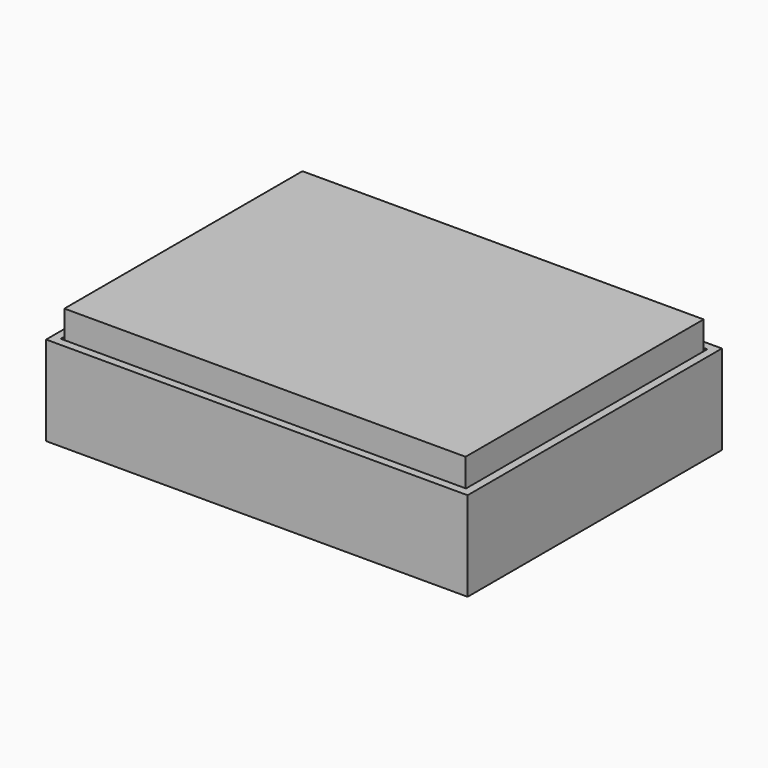
from build123d import *

# Parameters (mm, degrees)
CYLINDER001_R     = 1
CYLINDER001_DEPTH = 7
CYLINDER_R        = 3
CYLINDER_DEPTH    = 7
BOX009_W          = 2
BOX009_H          = 10
BOX009_DEPTH      = 12.8
BOX004_W          = 16.1
BOX004_H          = 16.1
BOX004_DEPTH      = 2
BOX008_W          = 71.6
BOX008_H          = 25.1
BOX008_DEPTH      = 2
CYLINDER002_R     = 4
CYLINDER002_DEPTH = 2
BOX001_W          = 99.7
BOX001_H          = 74.2
BOX001_DEPTH      = 22
BOX_W             = 103.7
BOX_H             = 78.2
BOX_DEPTH         = 22
BOX005_W          = 3
BOX005_H          = 1.6
BOX005_DEPTH      = 7
BOX006_W          = 1.6
BOX006_H          = 3
BOX006_DEPTH      = 7
BOX007_W          = 1.6
BOX007_H          = 3
BOX007_DEPTH      = 7
BOX003_W          = 12.9
BOX003_H          = 12.9
BOX003_DEPTH      = 22
BOX002_W          = 16.1
BOX002_H          = 16.1
BOX002_DEPTH      = 22
CHAMFER_SIZE      = 1
BOX014_W          = 2
BOX014_H          = 10
BOX014_DEPTH      = 12.8
BOX011_W          = 94.7
BOX011_H          = 69.2
BOX011_DEPTH      = 16
BOX010_W          = 98.7
BOX010_H          = 73.2
BOX010_DEPTH      = 18
BOX013_W          = 52
BOX013_H          = 33.8
BOX013_DEPTH      = 5
BOX012_W          = 56
BOX012_H          = 37.8
BOX012_DEPTH      = 7
BOX015_W          = 98.7
BOX015_H          = 73.2
BOX015_DEPTH      = 1.5


with BuildPart() as supporthole001:
    # Cylinder001 → Cylinder001 (new body)
    with BuildSketch(Plane.XY):
        Circle(CYLINDER001_R)
    extrude(amount=CYLINDER001_DEPTH)


with BuildPart() as supportext001:
    # Cylinder → Cylinder (new body)
    with BuildSketch(Plane.XY):
        Circle(CYLINDER_R)
    extrude(amount=CYLINDER_DEPTH)


with BuildPart() as support001:
    # Cut base: copy of SupportExt001
    add(supportext001.part)

    # Cut: cut SupportHole001
    add(supporthole001.part, mode=Mode.SUBTRACT)


with BuildPart() as support001_1:
    # Cut placement: moved
    add(support001.part.moved(Location((3.5, 3.5, 2))))


with BuildPart() as support002:
    # Cut001 base: copy of SupportExt001
    add(supportext001.part)

    # Cut001: cut SupportHole001
    add(supporthole001.part, mode=Mode.SUBTRACT)


with BuildPart() as support002_1:
    # Cut001 placement: moved
    add(support002.part.moved(Location((3.5, 69.7, 2))))


with BuildPart() as support003:
    # Cut002 base: copy of SupportExt001
    add(supportext001.part)

    # Cut002: cut SupportHole001
    add(supporthole001.part, mode=Mode.SUBTRACT)


with BuildPart() as support003_1:
    # Cut002 placement: moved
    add(support003.part.moved(Location((95.2, 3.5, 2))))


with BuildPart() as support004:
    # Cut003 base: copy of SupportExt001
    add(supportext001.part)

    # Cut003: cut SupportHole001
    add(supporthole001.part, mode=Mode.SUBTRACT)


with BuildPart() as support004_1:
    # Cut003 placement: moved
    add(support004.part.moved(Location((95.2, 69.7, 2))))


with BuildPart() as usbhole:
    # Box009 → Box009 (new body)
    with BuildSketch(Plane(origin=(-2.5, 38.2, 9.2), x_dir=(1, 0, 0), z_dir=(0, 0, 1))):
        with Locations((1, 5)):
            Rectangle(BOX009_W, BOX009_H)
    extrude(amount=BOX009_DEPTH)


with BuildPart() as hole:
    # Box004 → Box004 (new body)
    with BuildSketch(Plane(origin=(47.1, 3.8, 0), x_dir=(1, 0, 0), z_dir=(0, 0, 1))):
        with Locations((8.05, 8.05)):
            Rectangle(BOX004_W, BOX004_H)
    extrude(amount=BOX004_DEPTH)


with BuildPart() as screen:
    # Box008 → Box008 (new body)
    with BuildSketch(Plane(origin=(13.4, 40.5, 0), x_dir=(1, 0, 0), z_dir=(0, 0, 1))):
        with Locations((35.8, 12.55)):
            Rectangle(BOX008_W, BOX008_H)
    extrude(amount=BOX008_DEPTH)


with BuildPart() as holesinfront:
    # Cylinder002 → Cylinder002 (new body)
    with BuildSketch(Plane(origin=(13.2, 12.8, 0), x_dir=(1, 0, 0), z_dir=(0, 0, 1))):
        Circle(CYLINDER002_R)
    extrude(amount=CYLINDER002_DEPTH)

    # Fusion001: union hole, screen
    add(hole.part)
    add(screen.part)


with BuildPart() as boxcut:
    # Box001 → Box001 (new body)
    with BuildSketch(Plane(origin=(2, 2, 2), x_dir=(1, 0, 0), z_dir=(0, 0, 1))):
        with Locations((49.85, 37.1)):
            Rectangle(BOX001_W, BOX001_H)
    extrude(amount=BOX001_DEPTH)


with BuildPart() as finalbox:
    # Box → Box (new body)
    with BuildSketch(Plane.XY):
        with Locations((51.85, 39.1)):
            Rectangle(BOX_W, BOX_H)
    extrude(amount=BOX_DEPTH)

    # Cut004: cut BoxCut
    add(boxcut.part, mode=Mode.SUBTRACT)


with BuildPart() as finalbox_1:
    # Cut004 placement: moved
    add(finalbox.part.moved(Location((-2.5, -2.5, 0))))

    # Cut007: cut HolesInFront
    add(holesinfront.part, mode=Mode.SUBTRACT)

    # Cut008: cut usbHole
    add(usbhole.part, mode=Mode.SUBTRACT)


with BuildPart() as window1:
    # Box005 → Box005 (new body)
    with BuildSketch(Plane(origin=(6.55, 14.5, 10.3), x_dir=(1, 0, 0), z_dir=(0, 0, 1))):
        with Locations((1.5, 0.8)):
            Rectangle(BOX005_W, BOX005_H)
    extrude(amount=BOX005_DEPTH)


with BuildPart() as window2:
    # Box006 → Box006 (new body)
    with BuildSketch(Plane(origin=(0, 6.55, 10.3), x_dir=(1, 0, 0), z_dir=(0, 0, 1))):
        with Locations((0.8, 1.5)):
            Rectangle(BOX006_W, BOX006_H)
    extrude(amount=BOX006_DEPTH)


with BuildPart() as windows:
    # Box007 → Box007 (new body)
    with BuildSketch(Plane(origin=(14.5, 6.55, 10.3), x_dir=(1, 0, 0), z_dir=(0, 0, 1))):
        with Locations((0.8, 1.5)):
            Rectangle(BOX007_W, BOX007_H)
    extrude(amount=BOX007_DEPTH)

    # Fusion: union Window1, Window2
    add(window1.part)
    add(window2.part)


with BuildPart() as holecut:
    # Box003 → Box003 (new body)
    with BuildSketch(Plane(origin=(1.6, 1.6, 0), x_dir=(1, 0, 0), z_dir=(0, 0, 1))):
        with Locations((6.45, 6.45)):
            Rectangle(BOX003_W, BOX003_H)
    extrude(amount=BOX003_DEPTH)


with BuildPart() as chamfer_body:
    # Box002 → Box002 (new body)
    with BuildSketch(Plane.XY):
        with Locations((8.05, 8.05)):
            Rectangle(BOX002_W, BOX002_H)
    extrude(amount=BOX002_DEPTH)

    # Cut005: cut HoleCut
    add(holecut.part, mode=Mode.SUBTRACT)

    # Cut006: cut Windows
    add(windows.part, mode=Mode.SUBTRACT)


with BuildPart() as chamfer_body_1:
    # Cut006 placement: moved
    add(chamfer_body.part.moved(Location((47.1, 3.8, 0))))

    # Chamfer
    chamfer_edges = [chamfer_body_1.edges().sort_by_distance(p)[0] for p in [
        (61.6, 11.85, 0),
        (55.15, 5.4, 0),
        (48.7, 11.85, 0),
        (55.15, 18.3, 0),
    ]]
    chamfer(chamfer_edges, length=CHAMFER_SIZE)


with BuildPart() as usbholebottom:
    # Box014 → Box014 (new body)
    with BuildSketch(Plane(origin=(0, 38.2, 0), x_dir=(1, 0, 0), z_dir=(0, 0, 1))):
        with Locations((1, 5)):
            Rectangle(BOX014_W, BOX014_H)
    extrude(amount=BOX014_DEPTH)


with BuildPart() as bottominternal:
    # Box011 → Box011 (new body)
    with BuildSketch(Plane(origin=(2, 2, 0), x_dir=(1, 0, 0), z_dir=(0, 0, 1))):
        with Locations((47.35, 34.6)):
            Rectangle(BOX011_W, BOX011_H)
    extrude(amount=BOX011_DEPTH)


with BuildPart() as bottom:
    # Box010 → Box010 (new body)
    with BuildSketch(Plane.XY):
        with Locations((49.35, 36.6)):
            Rectangle(BOX010_W, BOX010_H)
    extrude(amount=BOX010_DEPTH)

    # Cut009: cut bottomInternal
    add(bottominternal.part, mode=Mode.SUBTRACT)


with BuildPart() as batteryinternal:
    # Box013 → Box013 (new body)
    with BuildSketch(Plane(origin=(2, 2, 0), x_dir=(1, 0, 0), z_dir=(0, 0, 1))):
        with Locations((26, 16.9)):
            Rectangle(BOX013_W, BOX013_H)
    extrude(amount=BOX013_DEPTH)


with BuildPart() as bottomfinal:
    # Box012 → Box012 (new body)
    with BuildSketch(Plane.XY):
        with Locations((28, 18.9)):
            Rectangle(BOX012_W, BOX012_H)
    extrude(amount=BOX012_DEPTH)

    # Cut010: cut batteryInternal
    add(batteryinternal.part, mode=Mode.SUBTRACT)


with BuildPart() as bottomfinal_1:
    # Cut010 placement: moved
    add(bottomfinal.part.moved(Location((42.7, 35.4, 11))))

    # Fusion002: union bottom
    add(bottom.part)

    # Cut011: cut usbHoleBottom
    add(usbholebottom.part, mode=Mode.SUBTRACT)


with BuildPart() as bottomfinal_2:
    # Cut011 placement: moved
    add(bottomfinal_1.part.moved(Location((0, 0, 10.5))))


with BuildPart() as pcb:
    # Box015 → Box015 (new body)
    with BuildSketch(Plane.XY.offset(9)):
        with Locations((49.35, 36.6)):
            Rectangle(BOX015_W, BOX015_H)
    extrude(amount=BOX015_DEPTH)


solid = Compound([support001_1.part, support002_1.part, support003_1.part, support004_1.part, finalbox_1.part, chamfer_body_1.part, bottomfinal_2.part, pcb.part])
